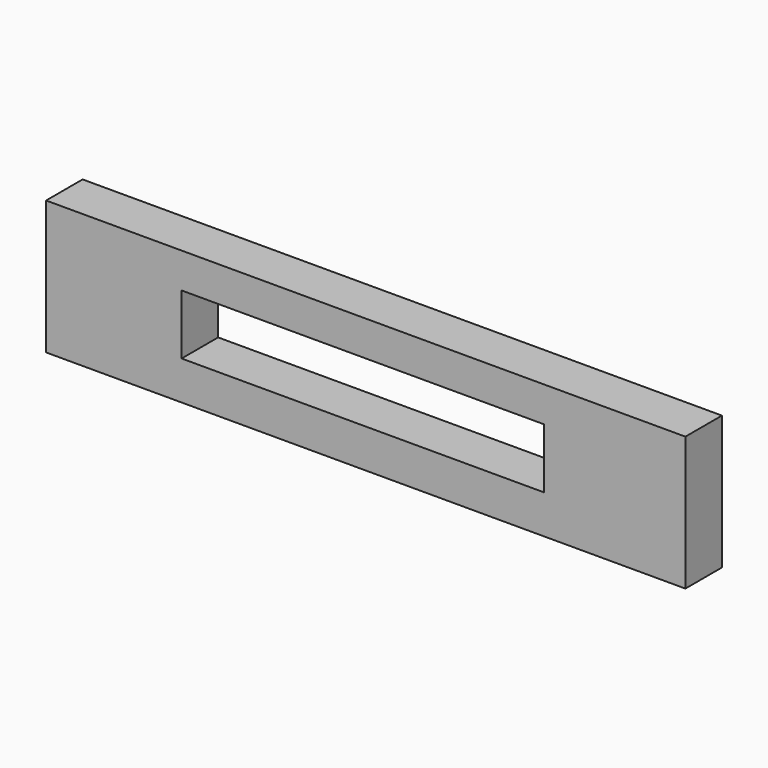
from build123d import *

# Parameters (mm, degrees)
F1_DEPTH = 25.4
F2_W     = 355.6
F2_H     = 74.40245
F2_W_2   = 201.470055
F2_H_2   = 33.329422
F3_DEPTH = 25.4


with BuildPart() as f1:
    # F0 (on Front) → F1 (new body)
    with BuildSketch(Plane.XZ):
        Polygon((174.169781, 83.232387), (-181.430219, 83.232387), (-181.430219, 8.829937), (-127.816673, 8.829937), (123.838696, 8.829937), (173.075632, 8.829937), (174.169781, 8.829937), align=None)
    extrude(amount=F1_DEPTH)

    # F2 (on face) → F3 (intersect)
    with BuildSketch(Plane.XZ.offset(25.4)):
        with Locations((-3.630219, 46.031162)):
            Rectangle(F2_W, F2_H)
        with Locations((-5.317259, 47.038215)):
            Rectangle(F2_W_2, F2_H_2, mode=Mode.SUBTRACT)
    extrude(amount=-F3_DEPTH, mode=Mode.INTERSECT)


solid = f1.part
